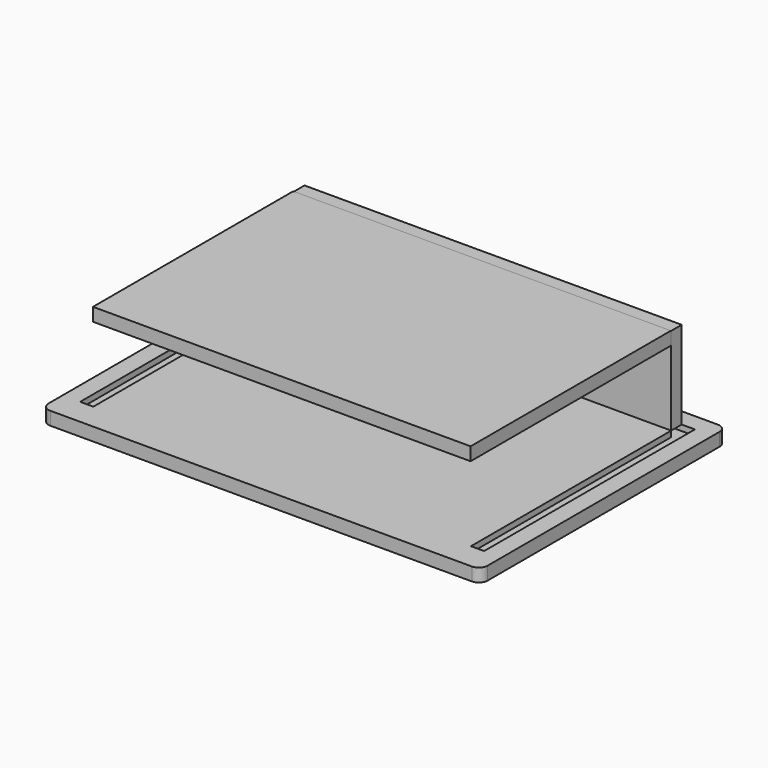
from build123d import *

# Parameters (mm, degrees)
F1_DEPTH  = 19.05
F2_W      = 584.2
F2_H      = 19.05
F3_DEPTH  = 8.382
F4_W      = 19.05
F4_H      = 361.95
F5_DEPTH  = 8.382
F6_W      = 19.05
F6_H      = 361.95
F7_DEPTH  = 8.382
F8_W      = 545.492311
F8_H      = 19.05
F9_DEPTH  = 127
F10_W     = 546.1
F10_H     = 361.95
F11_DEPTH = 19.05


with BuildPart() as f1:
    # F0 (on Top) → F1 (new body)
    with BuildSketch(Plane.XY):
        with BuildLine():
            Line((304.8, 222.25), (-304.8, 222.25))
            ThreePointArc((-304.8, 222.25), (-313.780256, 218.530256), (-317.5, 209.55))
            Line((-317.5, 209.55), (-317.5, -209.55))
            ThreePointArc((-317.5, -209.55), (-313.780256, -218.530256), (-304.8, -222.25))
            Line((-304.8, -222.25), (304.8, -222.25))
            ThreePointArc((304.8, -222.25), (313.780256, -218.530256), (317.5, -209.55))
            Line((317.5, -209.55), (317.5, 209.55))
            ThreePointArc((317.5, 209.55), (313.780256, 218.530256), (304.8, 222.25))
        make_face()
    extrude(amount=F1_DEPTH)

    # F2 (on face) → F3 (cut)
    with BuildSketch(Plane.XY.offset(19.05)):
        with Locations((0, 187.325)):
            Rectangle(F2_W, F2_H)
    extrude(amount=-F3_DEPTH, mode=Mode.SUBTRACT)

    # F4 (on face) → F5 (cut)
    with BuildSketch(Plane.XY.offset(19.05)):
        with Locations((-282.575, -3.175)):
            Rectangle(F4_W, F4_H)
    extrude(amount=-F5_DEPTH, mode=Mode.SUBTRACT)

    # F6 (on face) → F7 (cut)
    with BuildSketch(Plane.XY.offset(19.05)):
        with Locations((282.575, -3.175)):
            Rectangle(F6_W, F6_H)
    extrude(amount=-F7_DEPTH, mode=Mode.SUBTRACT)


with BuildPart() as f9:
    # F8 (on face) → F9 (new body)
    with BuildSketch(Plane.XY.offset(19.05)):
        with Locations((0.303845, 187.325)):
            Rectangle(F8_W, F8_H)
    extrude(amount=F9_DEPTH)


with BuildPart() as f11:
    # F10 (on face) → F11 (new body)
    with BuildSketch(Plane.XY.offset(146.05)):
        with Locations((-0.50051, -3.175)):
            Rectangle(F10_W, F10_H)
    extrude(amount=-F11_DEPTH)


solid = Compound([f1.part, f9.part, f11.part])
